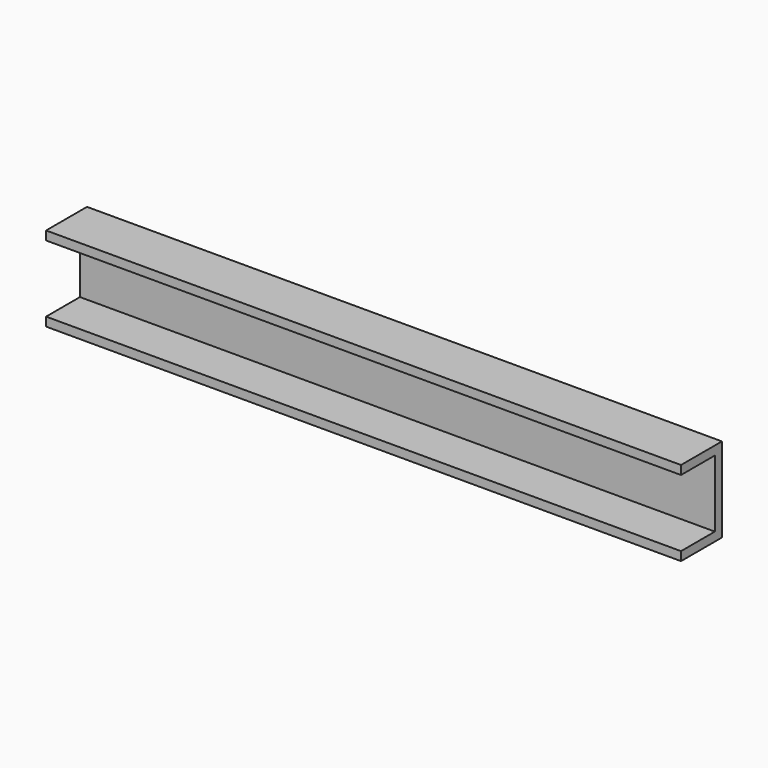
from build123d import *

# Parameters (mm, degrees)
F0_W     = 571.5
F0_H     = 76.2
F1_DEPTH = 7.9375
F2_W     = 571.5
F2_H     = 7.9375
F3_DEPTH = 38.1


with BuildPart() as f1:
    # F0 (on Front) → F1 (new body)
    with BuildSketch(Plane.XZ):
        with Locations((285.75, 38.1)):
            Rectangle(F0_W, F0_H)
    extrude(amount=-F1_DEPTH)

    # F2 (on Front) → F3 (join)
    with BuildSketch(Plane.XZ):
        with Locations((285.75, 72.23125)):
            Rectangle(F2_W, F2_H)
        with Locations((285.75, 3.96875)):
            Rectangle(F2_W, F2_H)
    extrude(amount=F3_DEPTH)


solid = f1.part
